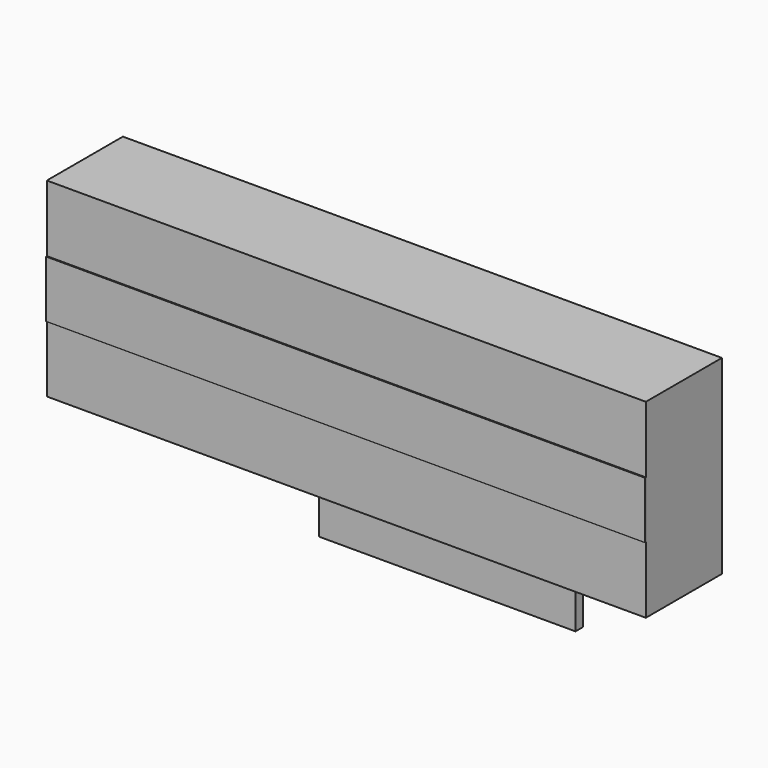
from build123d import *

# Parameters (mm, degrees)
F0_W     = 54
F0_H     = 55
F1_DEPTH = 2.02
F3_W     = 126
F3_H     = 14
F3_H_2   = 12
F4_DEPTH = 20
F5_DEPTH = 0.2


with BuildPart() as f1:
    # F0 (on Front) → F1 (new body)
    with BuildSketch(Plane.XZ):
        with Locations((0, -17.5)):
            Rectangle(F0_W, F0_H)
    extrude(amount=-F1_DEPTH)


with BuildPart() as f4:
    # F3 (on offset) → F4 (new body)
    with BuildSketch(Plane.XZ.offset(26.5)):
        with Locations((0, 13)):
            Rectangle(F3_W, F3_H)
        Rectangle(F3_W, F3_H_2)
        with Locations((0, -13)):
            Rectangle(F3_W, F3_H)
    extrude(amount=-F4_DEPTH)


with BuildPart() as f5:
    # F3 (on offset) → F5 (new body)
    with BuildSketch(Plane.XZ.offset(26.5)):
        Rectangle(F3_W, F3_H_2)
    extrude(amount=F5_DEPTH)


solid = Compound([f1.part, f4.part, f5.part])
